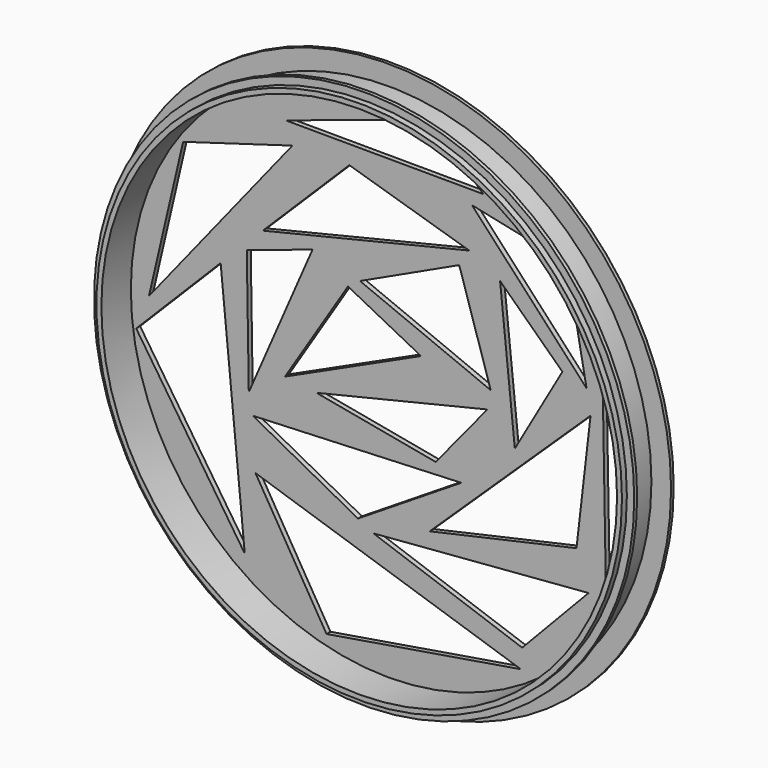
from build123d import *

# Parameters (mm, degrees)
F0_R      = 115
F1_DEPTH  = 2
F2_R      = 107
F2_R_2    = 105
F3_DEPTH  = 15
F5_R      = 110
F6_DEPTH  = 1.5
F7_R      = 1
F6_FACE_R = 105
F9_DEPTH  = 12
F11_DEPTH = 15
F13_DEPTH = 15


with BuildPart() as f1:
    # F0 (on Front) → F1 (new body)
    with BuildSketch(Plane.XZ):
        Circle(F0_R)
    extrude(amount=F1_DEPTH)

    # F2 (on face) → F3 (join)
    with BuildSketch(Plane.XZ.offset(2)):
        Circle(F2_R)
        Circle(F2_R_2, mode=Mode.SUBTRACT)
    extrude(amount=F3_DEPTH)

    # F5 (on offset) → F6 (join)
    with BuildSketch(Plane.XZ.offset(13)):
        Circle(F5_R)
    extrude(amount=F6_DEPTH)

    # F7
    f7_edges = [f1.edges().sort_by_distance(p)[0] for p in [
        (-115, 0, 0),
    ]]
    fillet(f7_edges, radius=F7_R)

    # F6_face (on face) → F9 (cut)
    with BuildSketch(Plane.XZ.offset(14.5)):
        Circle(F6_FACE_R)
    extrude(amount=-F9_DEPTH, mode=Mode.SUBTRACT)

    # F10 (on face) → F11 (cut)
    with BuildSketch(Plane(origin=(0, 0, 0), x_dir=(-1, 0, 0), z_dir=(0, 1, 0))):
        Polygon((-17.259745, 100.488558), (-38.544491, 80.841102), (41.955505, 81.113979), align=None)
        Polygon((83.706349, 59.829235), (39.226692, 72.927542), (97.623304, 0), align=None)
        Polygon((102.808043, -13.302966), (68.425, 21.352965), (58.601268, -79.613134), align=None)
        Polygon((25.309743, -97.623304), (54.235172, -49.323305), (-53.825844, -84.524997), align=None)
        Polygon((-81.386864, -48.231781), (-54.37161, -76.611444), (6.208051, -55.326693), align=None)
        Polygon((-102.671608, 0), (-88.481776, -46.321612), (-86.844489, 45.366522), align=None)
        Polygon((-33.905506, 75.383477), (-72.654657, 67.197032), (-80.568217, 24.900423), align=None)
    extrude(amount=-F11_DEPTH, mode=Mode.SUBTRACT)

    # F12 (on face) → F13 (cut)
    with BuildSketch(Plane(origin=(0, 0, 0), x_dir=(-1, 0, 0), z_dir=(0, 1, 0))):
        Polygon((16.031779, 73.473305), (-32.813981, 58.73771), (51.23347, 38.544491), align=None)
        Polygon((57.782628, 29.539406), (31.040253, 38.27161), (56.963984, -21.216525), align=None)
        Polygon((12.484324, -52.052118), (55.326689, -29.130084), (-29.539406, -25.582626), align=None)
        Polygon((-76.474994, -33.769067), (-16.713982, -47.140256), (-82.205504, 15.622457), align=None)
        Polygon((-51.369913, -6.208051), (-45.366526, 51.915679), (-70.744492, 27.629238), align=None)
        Polygon((11.665677, 33.359747), (-28.720763, 52.18856), (-41.546185, 11.529238), align=None)
        Polygon((42.22839, -10.847033), (16.577544, 29.812288), (-13.166525, 14.530932), align=None)
        Polygon((-19.169914, -21.489406), (29.402964, -12.484322), (-40.181778, 4.161441), align=None)
    extrude(amount=-F13_DEPTH, mode=Mode.SUBTRACT)


solid = f1.part
